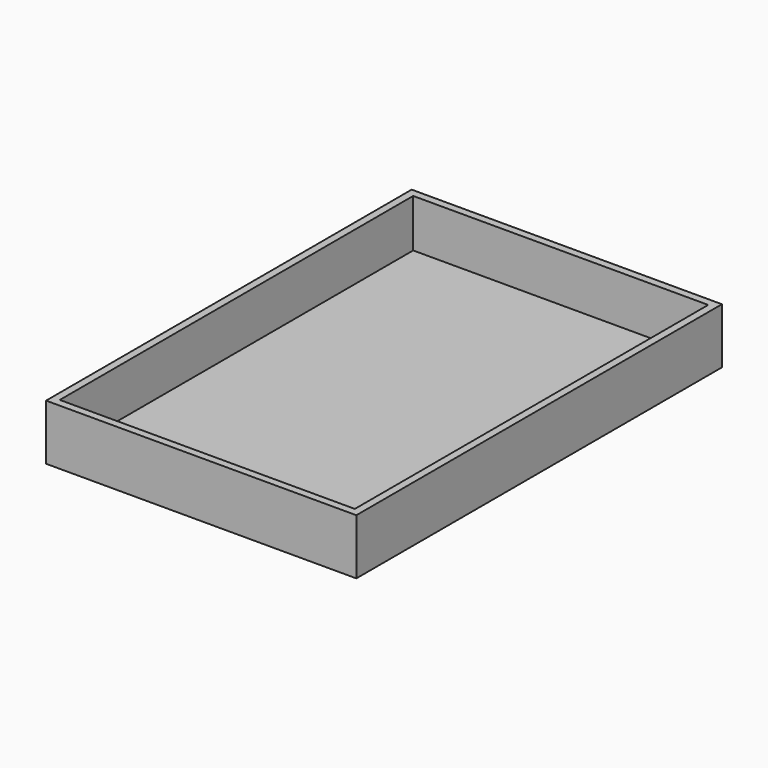
from build123d import *

# Parameters (mm, degrees)
F0_W     = 103.472993
F0_H     = 18.54468
F1_DEPTH = 76.2
F2_T     = -2.54


with BuildPart() as f1:
    # F0 (on Front) → F1 (new body, symmetric)
    with BuildSketch(Plane.XZ):
        with Locations((51.736496, 9.27234)):
            Rectangle(F0_W, F0_H)
    extrude(amount=F1_DEPTH, both=True)

    # F2
    f2_openings = [f1.faces().sort_by_distance(p)[0] for p in [
        (51.736496, 0, 18.54468),
    ]]
    offset(amount=F2_T, openings=f2_openings)


solid = f1.part
